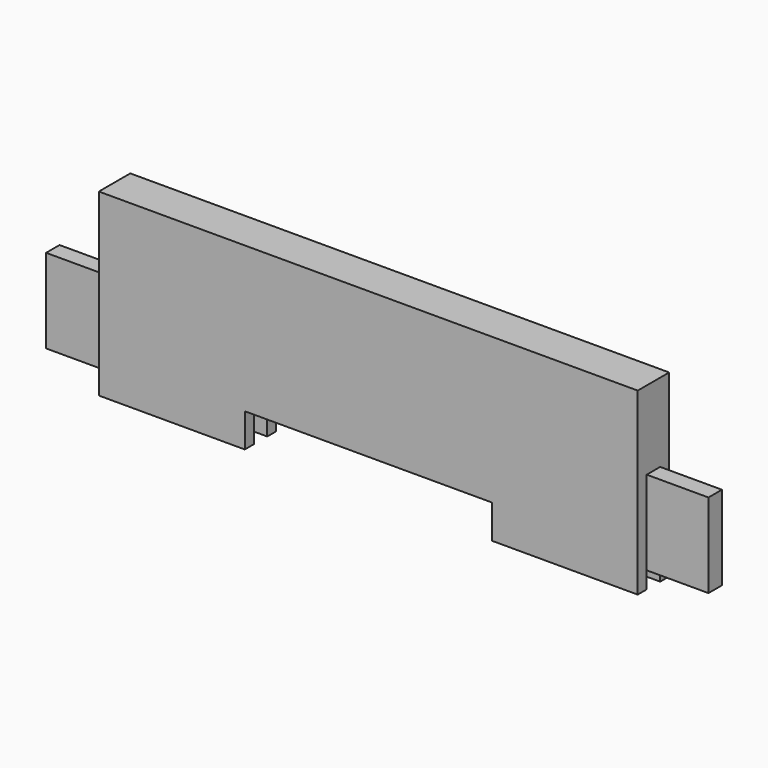
from build123d import *

# Parameters (mm, degrees)
F1_DEPTH = 22.225
F2_W     = 34.925
F2_H     = 6.35
F3_DEPTH = 57.15
F2_H_2   = 9.525
F2_W_2   = 73.025
F2_W_3   = 158.75
F4_DEPTH = 9.525
F5_DEPTH = 28.575


with BuildPart() as f1:
    # F0 (on Front) → F1 (new body)
    with BuildSketch(Plane.XZ):
        Polygon((0, 57.15), (0, 0), (117.475, 0), (117.475, 19.05), (257.175, 19.05), (257.175, 0), (374.65, 0), (374.65, 57.15), (339.725, 57.15), (339.725, 101.6), (34.925, 101.6), (34.925, 57.15), align=None)
    extrude(amount=F1_DEPTH)

    # F2 (on Top) → F3 (cut, through all)
    with BuildSketch(Plane.XY):
        with Locations((357.1875, -19.05)):
            Rectangle(F2_W, F2_H)
        with Locations((357.1875, -3.175)):
            Rectangle(F2_W, F2_H)
        with Locations((17.4625, -19.05)):
            Rectangle(F2_W, F2_H)
        with Locations((17.4625, -3.175)):
            Rectangle(F2_W, F2_H)
    extrude(amount=F3_DEPTH, mode=Mode.SUBTRACT)

    # F2 (on Top) → F4 (cut)
    with BuildSketch(Plane.XY):
        with Locations((17.4625, -11.1125)):
            Rectangle(F2_W, F2_H_2)
        with Locations((71.4375, -11.1125)):
            Rectangle(F2_W_2, F2_H_2)
        with Locations((357.1875, -11.1125)):
            Rectangle(F2_W, F2_H_2)
        with Locations((303.2125, -11.1125)):
            Rectangle(F2_W_2, F2_H_2)
        with Locations((187.325, -11.1125)):
            Rectangle(F2_W_3, F2_H_2)
    extrude(amount=F4_DEPTH, mode=Mode.SUBTRACT)

    # F2 (on Top) → F5 (cut)
    with BuildSketch(Plane.XY):
        with Locations((187.325, -11.1125)):
            Rectangle(F2_W_3, F2_H_2)
    extrude(amount=F5_DEPTH, mode=Mode.SUBTRACT)


solid = f1.part
